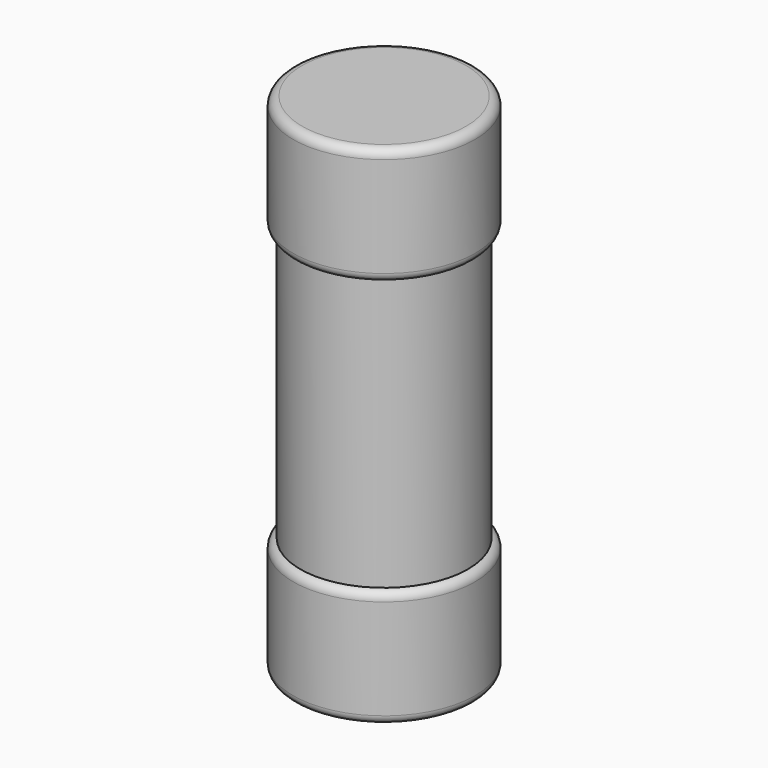
from build123d import *

# Parameters (mm, degrees)
F0_R     = 10.3
F1_DEPTH = 13.35
F2_R     = 9.5
F3_DEPTH = 30.75
F4_R     = 10.3
F5_DEPTH = 13.35
F6_R     = 1
F6_2_R   = 1


with BuildPart() as f1:
    # F0 (on Top) → F1 (new body)
    with BuildSketch(Plane.XY):
        Circle(F0_R)
    extrude(amount=F1_DEPTH)

    # F6#2
    f6_2_edges = [f1.edges().sort_by_distance(p)[0] for p in [
        (-10.3, 0, 0),
        (-10.3, 0, 13.35),
    ]]
    fillet(f6_2_edges, radius=F6_2_R)


with BuildPart() as f3:
    # F2 (on face) → F3 (new body)
    with BuildSketch(Plane.XY.offset(13.35)):
        Circle(F2_R)
    extrude(amount=F3_DEPTH)


with BuildPart() as f5:
    # F4 (on face) → F5 (new body)
    with BuildSketch(Plane.XY.offset(44.1)):
        Circle(F4_R)
    extrude(amount=F5_DEPTH)

    # F6
    f6_edges = [f5.edges().sort_by_distance(p)[0] for p in [
        (-10.3, 0, 57.45),
        (-10.3, 0, 44.1),
    ]]
    fillet(f6_edges, radius=F6_R)


solid = Compound([f1.part, f3.part, f5.part])
